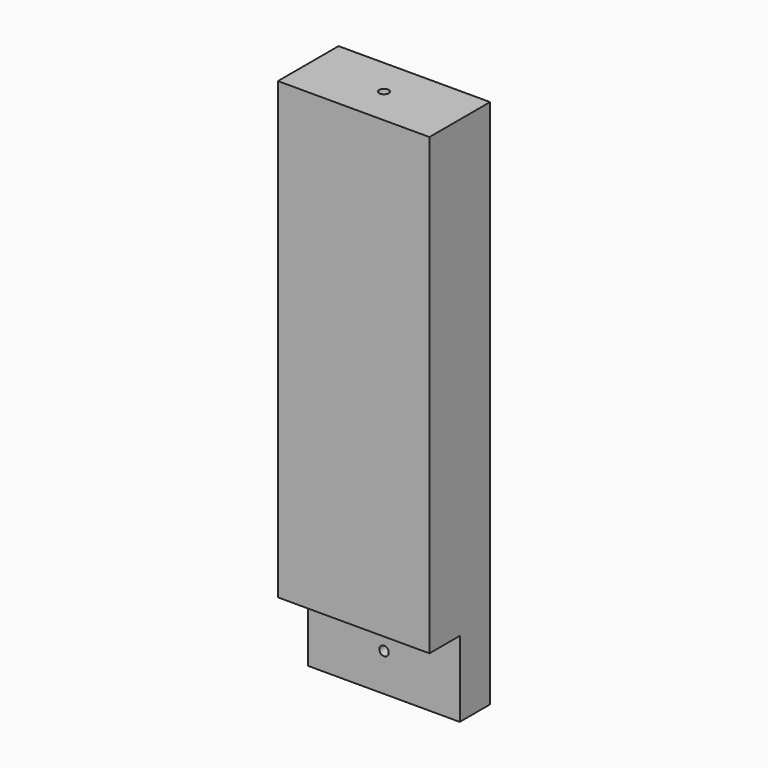
from build123d import *

# Parameters (mm, degrees)
F0_W     = 101.6
F0_H     = 50.8
F1_DEPTH = 355.6
F2_W     = 101.6
F2_H     = 25.4
F3_DEPTH = 50.8
F4_R     = 3.175
F5_DEPTH = 50.801
F6_R     = 3.175
F7_DEPTH = 25.4
F8_R     = 6.35
F9_DEPTH = 6.35
F9_TAPER = 30


with BuildPart() as f1:
    # F0 (on Top) → F1 (new body)
    with BuildSketch(Plane.XY):
        Rectangle(F0_W, F0_H)
    extrude(amount=F1_DEPTH)

    # F2 (on face) → F3 (cut)
    with BuildSketch(Plane(origin=(0, 0, 0), x_dir=(1, 0, 0), z_dir=(0, 0, -1))):
        with Locations((0, 12.7)):
            Rectangle(F2_W, F2_H)
    extrude(amount=-F3_DEPTH, mode=Mode.SUBTRACT)

    # F4 (on face) → F5 (cut, through all)
    with BuildSketch(Plane(origin=(0, 25.4, 0), x_dir=(-1, 0, 0), z_dir=(0, 1, 0))):
        with Locations((0, 25.4)):
            Circle(F4_R)
    extrude(amount=-F5_DEPTH, mode=Mode.SUBTRACT)

    # F6 (on face) → F7 (cut)
    with BuildSketch(Plane.XY.offset(355.6)):
        Circle(F6_R)
    extrude(amount=-F7_DEPTH, mode=Mode.SUBTRACT)

    # F8 (on face) → F9 (cut)
    with BuildSketch(Plane(origin=(0, 25.4, 0), x_dir=(-1, 0, 0), z_dir=(0, 1, 0))):
        with Locations((0, 25.4)):
            Circle(F8_R)
    extrude(amount=-F9_DEPTH, taper=F9_TAPER, mode=Mode.SUBTRACT)


solid = f1.part
